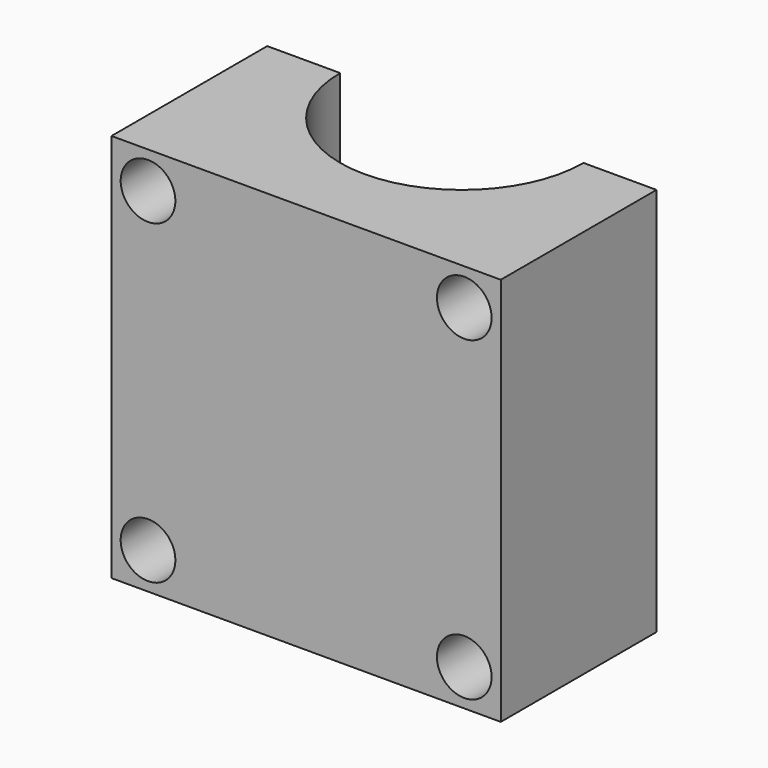
from build123d import *

# Parameters (mm, degrees)
F0_W     = 25.4
F0_H     = 25.4
F1_DEPTH = 12.7
F3_DEPTH = 25.401
F4_R     = 1.78435
F5_DEPTH = 12.701


with BuildPart() as f1:
    # F0 (on Front) → F1 (new body)
    with BuildSketch(Plane.XZ):
        Rectangle(F0_W, F0_H)
    extrude(amount=F1_DEPTH)

    # F2 (on face) → F3 (cut, through all)
    with BuildSketch(Plane.XY.offset(12.7)):
        with BuildLine():
            ThreePointArc((-7.9375, 0), (0, -7.9375), (7.9375, 0))
            Line((7.9375, 0), (-7.9375, 0))
        make_face()
        with BuildLine():
            Line((-7.9375, 0), (7.9375, 0))
            ThreePointArc((7.9375, 0), (0, 7.9375), (-7.9375, 0))
        make_face()
    extrude(amount=-F3_DEPTH, mode=Mode.SUBTRACT)

    # F4 (on Front) → F5 (cut, through all)
    with BuildSketch(Plane.XZ):
        with Locations((-10.31748, 10.31748)):
            Circle(F4_R)
        with Locations((-10.31748, -10.31748)):
            Circle(F4_R)
        with Locations((10.31748, -10.31748)):
            Circle(F4_R)
        with Locations((10.31748, 10.31748)):
            Circle(F4_R)
    extrude(amount=F5_DEPTH, mode=Mode.SUBTRACT)


solid = f1.part
